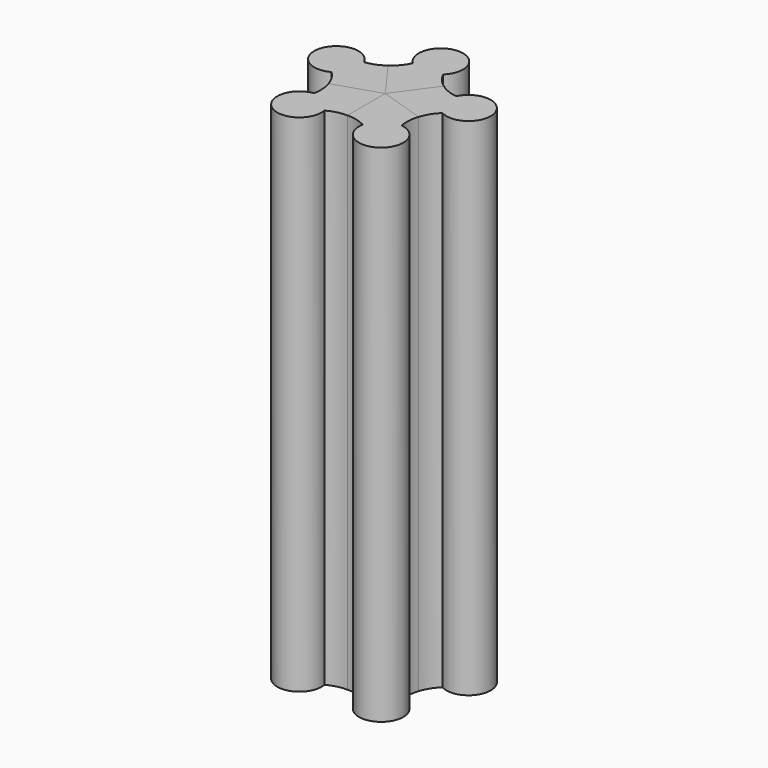
from build123d import *

# Parameters (mm, degrees)
F1_DEPTH = 508
F3_COUNT = 5


with BuildPart() as f1:
    # F0 (on Top) → F1 (new body)
    with BuildSketch(Plane.XY):
        with BuildLine():
            Line((-27.993273, 38.529434), (0, 0))
            Line((0, 0), (27.993273, 38.529434))
            ThreePointArc((27.993273, 38.529434), (20.627401, 45.273392), (15.270806, 53.702148))
            ThreePointArc((15.270806, 53.702148), (0, 92.075), (-15.270806, 53.702148))
            ThreePointArc((-15.270806, 53.702148), (-20.627401, 45.273392), (-27.993273, 38.529434))
        make_face()
    extrude(amount=F1_DEPTH)


with BuildPart() as f3_1:
    # F3: instance of F1
    add(f1.part.rotate(Axis((0, 0, 279.197782), (0, 0, 1)), 1 * 360 / F3_COUNT))


with BuildPart() as f3_2:
    # F3: instance of F1
    add(f1.part.rotate(Axis((0, 0, 279.197782), (0, 0, 1)), 2 * 360 / F3_COUNT))


with BuildPart() as f3_3:
    # F3: instance of F1
    add(f1.part.rotate(Axis((0, 0, 279.197782), (0, 0, 1)), 3 * 360 / F3_COUNT))


with BuildPart() as f3_4:
    # F3: instance of F1
    add(f1.part.rotate(Axis((0, 0, 279.197782), (0, 0, 1)), 4 * 360 / F3_COUNT))


solid = Compound([f1.part, f3_1.part, f3_2.part, f3_3.part, f3_4.part])
